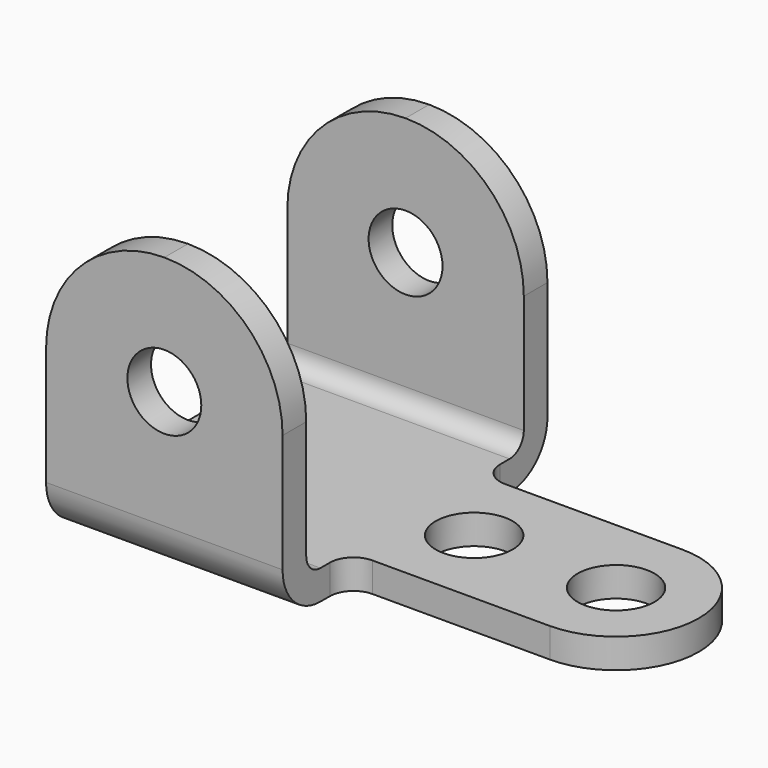
from build123d import *

# Parameters (mm, degrees)
F0_R     = 10.3251
F1_DEPTH = 7.9375
F2_W     = 63.5
F2_H     = 7.9375
F3_DEPTH = 68.2625
F4_R     = 9.92251
F5_DEPTH = 88.901
F7_DEPTH = 139.701
F8_DEPTH = 63.5


with BuildPart() as f1:
    # F0 (on Top) → F1 (new body)
    with BuildSketch(Plane.XY):
        with BuildLine():
            Line((63.5, 44.45), (0, 44.45))
            Line((0, 44.45), (0, -44.45))
            Line((0, -44.45), (63.5, -44.45))
            Line((63.5, -44.45), (63.5, -28.575))
            ThreePointArc((63.5, -28.575), (65.359872, -24.084872), (69.85, -22.225))
            Line((69.85, -22.225), (117.475, -22.225))
            ThreePointArc((117.475, -22.225), (139.7, 0), (117.475, 22.225))
            Line((117.475, 22.225), (69.85, 22.225))
            ThreePointArc((69.85, 22.225), (65.359872, 24.084872), (63.5, 28.575))
            Line((63.5, 28.575), (63.5, 44.45))
        make_face()
        with Locations((79.375, 0)):
            Circle(F0_R, mode=Mode.SUBTRACT)
        with Locations((117.475, 0)):
            Circle(F0_R, mode=Mode.SUBTRACT)
    extrude(amount=F1_DEPTH)

    # F2 (on face) → F3 (join)
    with BuildSketch(Plane.XY.offset(7.9375)):
        with Locations((31.75, -40.48125)):
            Rectangle(F2_W, F2_H)
        with Locations((31.75, 40.48125)):
            Rectangle(F2_W, F2_H)
    extrude(amount=F3_DEPTH)

    # F4 (on face) → F5 (cut, through all)
    with BuildSketch(Plane.XZ.offset(44.45)):
        with BuildLine():
            ThreePointArc((0, 44.45), (9.29936, 66.90064), (31.75, 76.2))
            Line((31.75, 76.2), (0, 76.2))
            Line((0, 76.2), (0, 44.45))
        make_face()
        with BuildLine():
            ThreePointArc((31.75, 76.2), (54.20064, 66.90064), (63.5, 44.45))
            Line((63.5, 44.45), (63.5, 76.2))
            Line((63.5, 76.2), (31.75, 76.2))
        make_face()
        with Locations((31.75, 44.45)):
            Circle(F4_R)
    extrude(amount=-F5_DEPTH, mode=Mode.SUBTRACT)

    # F6 (on Right) → F7 (cut, through all)
    with BuildSketch(Plane.YZ):
        with BuildLine():
            ThreePointArc((-31.75, 0), (-40.730256, 3.719744), (-44.45, 12.7))
            Line((-44.45, 12.7), (-44.45, 0))
            Line((-44.45, 0), (-31.75, 0))
        make_face()
        with BuildLine():
            ThreePointArc((44.45, 12.7), (40.730256, 3.719744), (31.75, 0))
            Line((31.75, 0), (44.45, 0))
            Line((44.45, 0), (44.45, 12.7))
        make_face()
    extrude(amount=F7_DEPTH, mode=Mode.SUBTRACT)

    # F6 (on Right) → F8 (join)
    with BuildSketch(Plane.YZ):
        with BuildLine():
            ThreePointArc((36.5125, 12.7), (35.117596, 9.332404), (31.75, 7.9375))
            Line((31.75, 7.9375), (36.5125, 7.9375))
            Line((36.5125, 7.9375), (36.5125, 12.7))
        make_face()
        with BuildLine():
            ThreePointArc((-31.75, 7.9375), (-35.117596, 9.332404), (-36.5125, 12.7))
            Line((-36.5125, 12.7), (-36.5125, 7.9375))
            Line((-36.5125, 7.9375), (-31.75, 7.9375))
        make_face()
    extrude(amount=F8_DEPTH)


solid = f1.part
